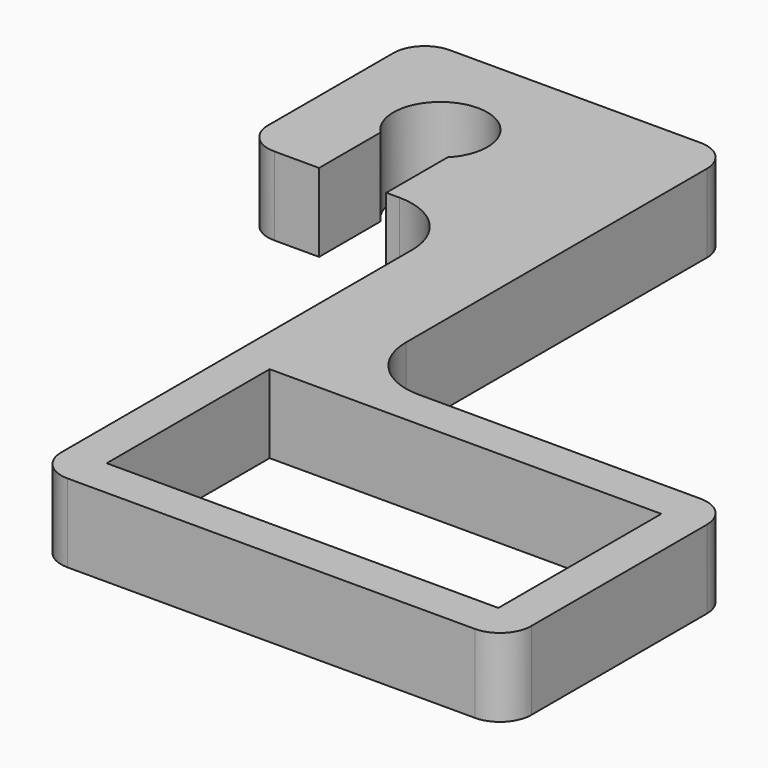
from build123d import *

# Parameters (mm, degrees)
F0_W     = 12.5
F0_H     = 6.5
F1_DEPTH = 2.5


with BuildPart() as f1:
    # F0 (on Top) → F1 (new body)
    with BuildSketch(Plane.XY):
        with BuildLine():
            Line((6.5, 4.5), (-2.5, 4.5))
            ThreePointArc((-2.5, 4.5), (-3.914214, 5.085786), (-4.5, 6.5))
            Line((-4.5, 6.5), (-4.5, 18.5))
            ThreePointArc((-4.5, 18.5), (-4.792893, 19.207107), (-5.5, 19.5))
            Line((-5.5, 19.5), (-7.5, 19.5))
            Line((-7.5, 19.5), (-13.5, 19.5))
            ThreePointArc((-13.5, 19.5), (-14.207107, 19.207107), (-14.5, 18.5))
            Line((-14.5, 18.5), (-14.5, 16))
            Line((-14.5, 16), (-14.5, 13.5))
            ThreePointArc((-14.5, 13.5), (-14.207107, 12.792893), (-13.5, 12.5))
            Line((-13.5, 12.5), (-12.071429, 12.5))
            Line((-12.071429, 12.5), (-12.071429, 14.950219))
            ThreePointArc((-12.071429, 14.950219), (-11, 17.5), (-9.928571, 14.950219))
            Line((-9.928571, 14.950219), (-9.928571, 12.5))
            Line((-9.928571, 12.5), (-9.5, 12.5))
            ThreePointArc((-9.5, 12.5), (-8.085786, 11.914214), (-7.5, 10.5))
            Line((-7.5, 10.5), (-7.5, 4.5))
            Line((-7.5, 4.5), (-7.5, -3.5))
            ThreePointArc((-7.5, -3.5), (-7.207107, -4.207107), (-6.5, -4.5))
            Line((-6.5, -4.5), (6.5, -4.5))
            ThreePointArc((6.5, -4.5), (7.207107, -4.207107), (7.5, -3.5))
            Line((7.5, -3.5), (7.5, 3.5))
            ThreePointArc((7.5, 3.5), (7.207107, 4.207107), (6.5, 4.5))
        make_face()
        Rectangle(F0_W, F0_H, mode=Mode.SUBTRACT)
    extrude(amount=F1_DEPTH)


solid = f1.part
